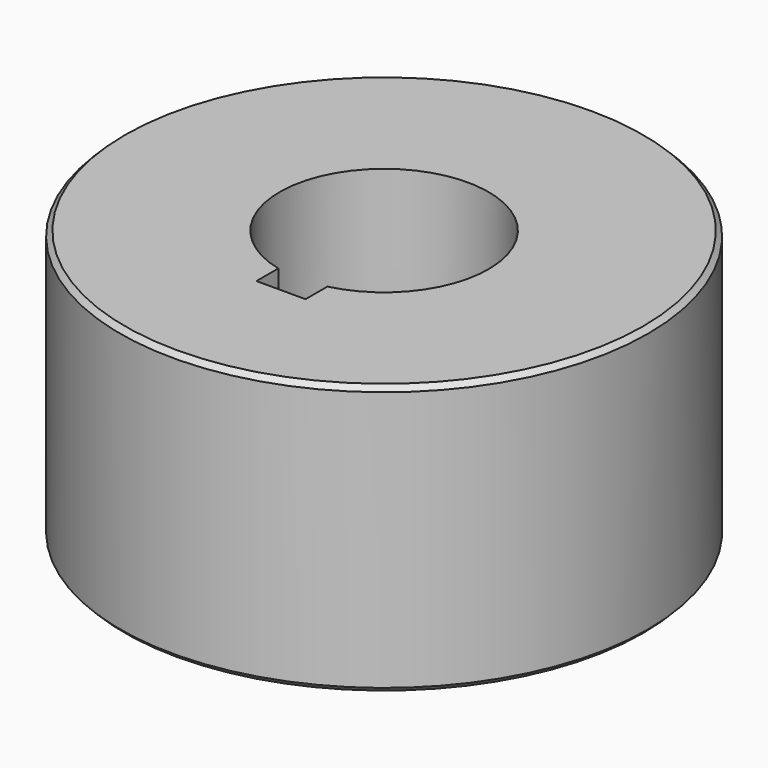
from build123d import *

# Parameters (mm, degrees)
F0_R     = 68.2625
F0_R_2   = 27.0256
F1_DEPTH = 69.85
F3_R     = 31.75
F4_DEPTH = 19.05
F5_W     = 12.7
F5_H     = 33.3375
F6_DEPTH = 69.851
F7_SIZE  = 1.27
F8_D     = 10.71626
F8_DEPTH = 63.5
F8_TIP   = 3.2194893086


with BuildPart() as f1:
    # F0 (on Top) → F1 (new body)
    with BuildSketch(Plane.XY):
        Circle(F0_R)
        Circle(F0_R_2, mode=Mode.SUBTRACT)
    extrude(amount=F1_DEPTH)

    # F3 (on face) → F4 (cut)
    with BuildSketch(Plane(origin=(0, 0, 0), x_dir=(1, 0, 0), z_dir=(0, 0, -1))):
        Circle(F3_R)
    extrude(amount=-F4_DEPTH, mode=Mode.SUBTRACT)

    # F5 (on face) → F6 (cut, through all)
    with BuildSketch(Plane(origin=(0, 0, 0), x_dir=(1, 0, 0), z_dir=(0, 0, -1))):
        with Locations((0, 16.66875)):
            Rectangle(F5_W, F5_H)
    extrude(amount=-F6_DEPTH, mode=Mode.SUBTRACT)

    # F7
    f7_edges = [f1.edges().sort_by_distance(p)[0] for p in [
        (-68.2625, 0, 69.85),
        (-68.2625, 0, 0),
    ]]
    chamfer(f7_edges, length=F7_SIZE)

    # F8
    with Locations(Plane(origin=(0, 0, 0), x_dir=(1, 0, 0), z_dir=(0, 0, -1))):
        with Locations((0, 57.15), (-49.4933518263, 28.575), (49.4933518263, 28.575), (49.4933518263, -28.575), (0, -57.15), (-49.4933518263, -28.575)):
            Hole(F8_D / 2, depth=F8_DEPTH)
            with Locations((0, 0, -(F8_DEPTH + F8_TIP / 2))):  # 118° drill point
                Cone(0, F8_D / 2, F8_TIP, mode=Mode.SUBTRACT)


solid = f1.part
